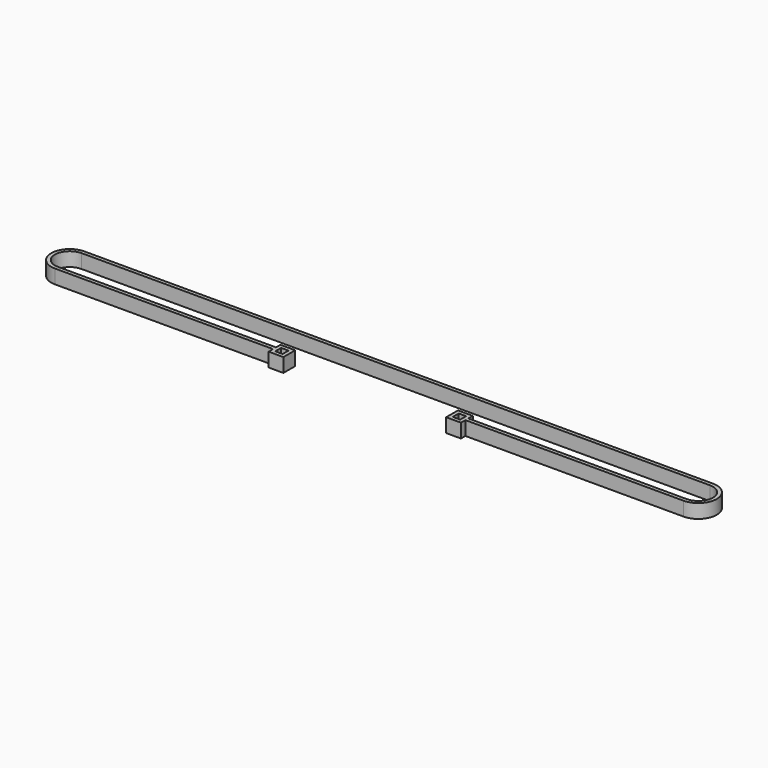
from build123d import *

# Parameters (mm, degrees)
F0_W     = 3.175
F0_H     = 3.175
F1_DEPTH = 6


with BuildPart() as f1:
    # F0 (on Top) → F1 (new body)
    with BuildSketch(Plane.XY):
        with BuildLine():
            ThreePointArc((269.931261, -7.9375), (277.868761, 0), (269.931261, 7.9375))
            Line((269.931261, 7.9375), (0, 7.9375))
            ThreePointArc((0, 7.9375), (-7.9375, 0), (0, -7.9375))
            Line((0, -7.9375), (93.662513, -7.9375))
            Line((93.662513, -7.9375), (93.662513, -10.31875))
            Line((93.662513, -10.31875), (100.012513, -10.31875))
            Line((100.012513, -10.31875), (100.012513, -3.96875))
            Line((100.012513, -3.96875), (93.662513, -3.96875))
            Line((93.662513, -3.96875), (93.662513, -6.35))
            Line((93.662513, -6.35), (0, -6.35))
            ThreePointArc((0, -6.35), (-6.35, 0), (0, 6.35))
            Line((0, 6.35), (269.931261, 6.35))
            ThreePointArc((269.931261, 6.35), (276.281261, 0), (269.931261, -6.35))
            Line((269.931261, -6.35), (176.268748, -6.35))
            Line((176.268748, -6.35), (176.268748, -3.96875))
            Line((176.268748, -3.96875), (173.093748, -3.96875))
            Line((173.093748, -3.96875), (169.918748, -3.96875))
            Line((169.918748, -3.96875), (169.918748, -10.31875))
            Line((169.918748, -10.31875), (176.268748, -10.31875))
            Line((176.268748, -10.31875), (176.268748, -7.9375))
            Line((176.268748, -7.9375), (269.931261, -7.9375))
        make_face()
        with Locations((96.837513, -7.14375)):
            Rectangle(F0_W, F0_H, mode=Mode.SUBTRACT)
        Polygon((171.506248, -5.55625), (173.093748, -5.55625), (174.681248, -5.55625), (174.681248, -8.73125), (171.506248, -8.73125), align=None, mode=Mode.SUBTRACT)
    extrude(amount=F1_DEPTH)


solid = f1.part
